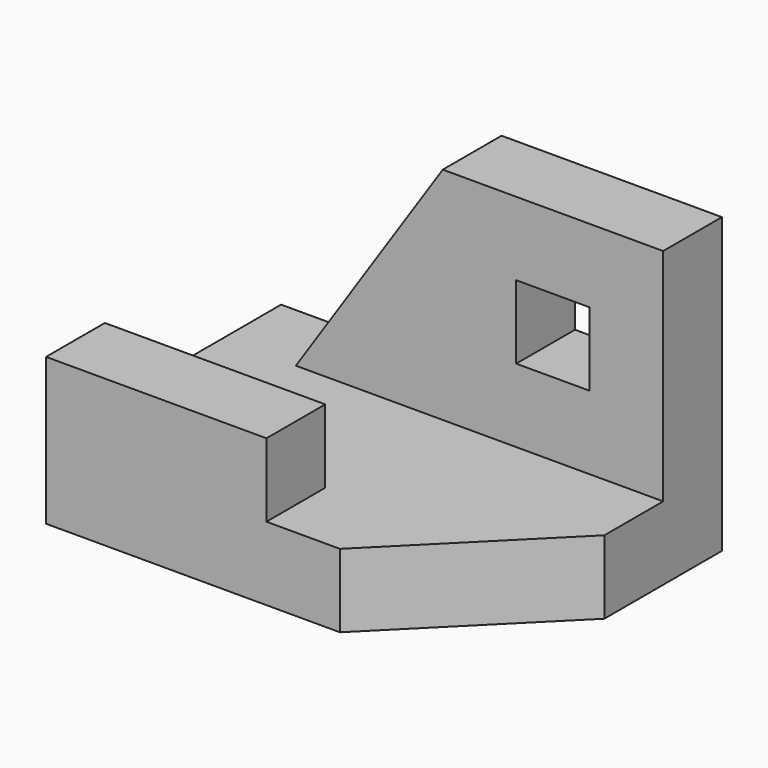
from build123d import *

# Parameters (mm, degrees)
PAD_DEPTH       = 10
SKETCH001_W     = 30
SKETCH001_H     = 10
PAD001_DEPTH    = 10
SKETCH002_W     = 50
SKETCH002_H     = 10
PAD002_DEPTH    = 30
POCKET_DEPTH    = 10.001
SKETCH004_W     = 10
SKETCH004_H     = 10
POCKET001_DEPTH = 10.001


with BuildPart() as part:
    # Sketch → Pad (new body)
    with BuildSketch(Plane.XY):
        Polygon((-30, 20), (-30, -20), (10, -20), (30, 0), (30, 20), align=None)
    extrude(amount=PAD_DEPTH)

    # Sketch001 (on Face7 of Pad) → Pad001 (join)
    with BuildSketch(Plane.XY.offset(10)):
        with Locations((-15, -15)):
            Rectangle(SKETCH001_W, SKETCH001_H)
    extrude(amount=PAD001_DEPTH)

    # Sketch002 (on Face3 of Pad001) → Pad002 (join)
    with BuildSketch(Plane.XY.offset(10)):
        with Locations((5, 15)):
            Rectangle(SKETCH002_W, SKETCH002_H)
    extrude(amount=PAD002_DEPTH)

    # Sketch003 (on Face10 of Pad002) → Pocket (cut, through all)
    with BuildSketch(Plane.XZ.offset(-10)):
        Polygon((-20, 10), (-20, 40), (0, 40), align=None)
    extrude(amount=-POCKET_DEPTH, mode=Mode.SUBTRACT)

    # Sketch004 (on Face13 of Pocket) → Pocket001 (cut, through all)
    with BuildSketch(Plane.XZ.offset(-10)):
        with Locations((15, 25)):
            Rectangle(SKETCH004_W, SKETCH004_H)
    extrude(amount=-POCKET001_DEPTH, mode=Mode.SUBTRACT)


solid = part.part
